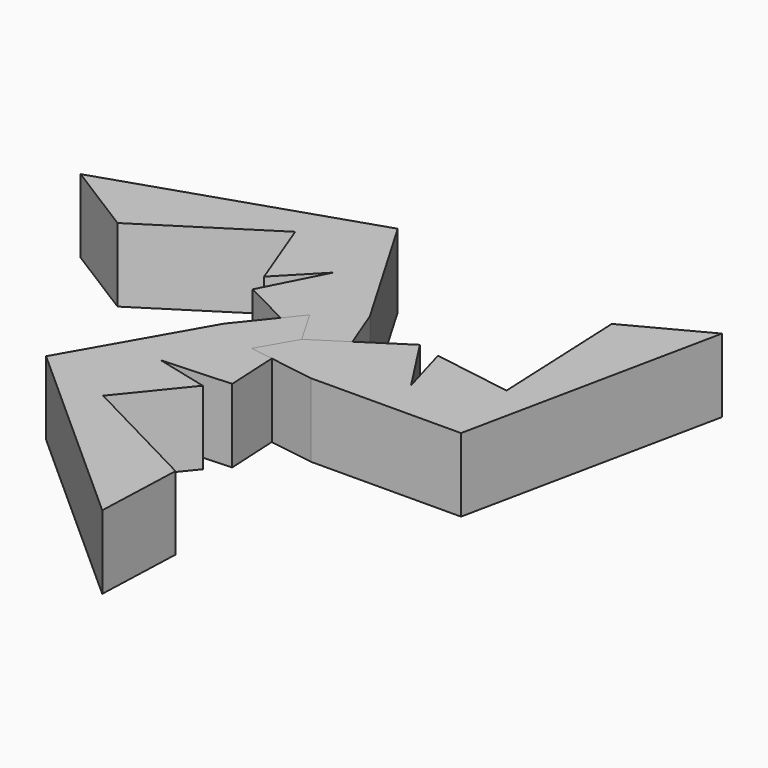
from build123d import *

# Parameters (mm, degrees)
F1_DEPTH = 25.4
F2_COUNT = 3


with BuildPart() as f1:
    # F0 (on Top) → F1 (new body)
    with BuildSketch(Plane.XY):
        Polygon((-28.532844, 14.579483), (0, 0), (14.450881, 0), (5.939993, 22.030549), (-20.110076, 66.621855), (-106.768146, 38.105182), (-81.177264, 22.030549), (-40.572047, 47.948938), (-30.767526, 22.269335), (-17.721107, 35.738643), align=None)
    extrude(amount=F1_DEPTH)


with BuildPart() as f2_1:
    # F2: instance of F1
    add(f1.part.rotate(Axis((0, 0, 12.7), (0, 0, 1)), 1 * 360 / F2_COUNT))


with BuildPart() as f2_2:
    # F2: instance of F1
    add(f1.part.rotate(Axis((0, 0, 12.7), (0, 0, 1)), 2 * 360 / F2_COUNT))


solid = Compound([f1.part, f2_1.part, f2_2.part])
